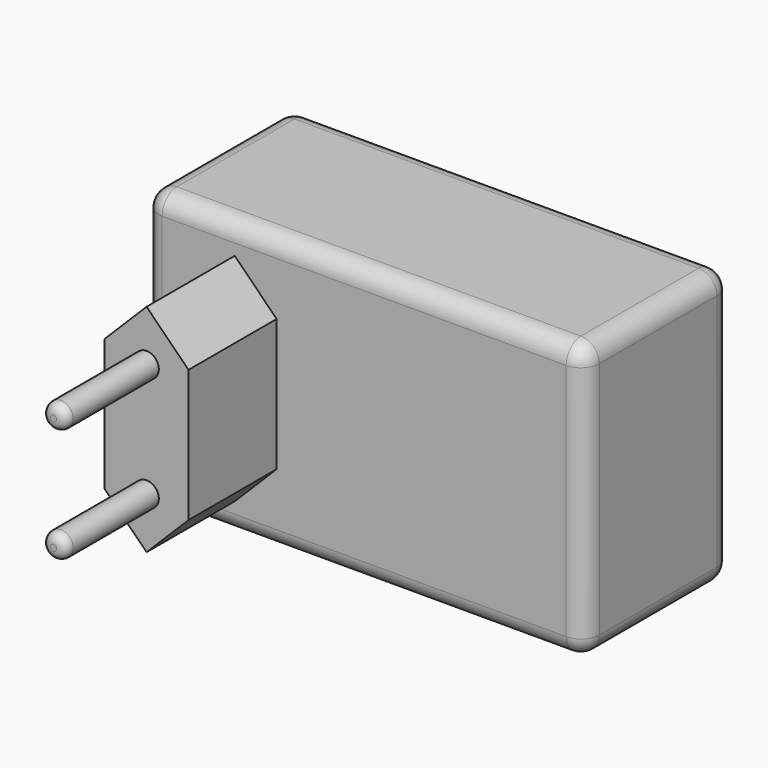
from build123d import *

# Parameters (mm, degrees)
F0_W     = 72
F0_H     = 45
F1_DEPTH = 30
F3_DEPTH = 18
F4_R     = 2
F5_DEPTH = 19
F6_R     = 1.5
F7_R     = 3


with BuildPart() as f1:
    # F0 (on Front) → F1 (new body)
    with BuildSketch(Plane.XZ):
        with Locations((-36, 0)):
            Rectangle(F0_W, F0_H)
    extrude(amount=-F1_DEPTH)

    # F2 (on face) → F3 (join)
    with BuildSketch(Plane.XZ):
        Polygon((-64, 10.8), (-64, -10.8), (-57.15, -17.65), (-50.3, -10.8), (-50.3, 10.8), (-57.15, 17.65), align=None)
    extrude(amount=F3_DEPTH)

    # F4 (on face) → F5 (join)
    with BuildSketch(Plane.XZ.offset(18)):
        with Locations((-57.15, 9.3)):
            Circle(F4_R)
        with Locations((-57.15, -9.3)):
            Circle(F4_R)
    extrude(amount=F5_DEPTH)

    # F6
    f6_edges = [f1.edges().sort_by_distance(p)[0] for p in [
        (-59.15, -37, 9.3),
        (-59.15, -37, -9.3),
    ]]
    fillet(f6_edges, radius=F6_R)

    # F7
    f7_edges = [f1.edges().sort_by_distance(p)[0] for p in [
        (-72, 15, 22.5),
        (-72, 15, -22.5),
        (-72, 0, 0),
        (-72, 30, 0),
        (0, 15, -22.5),
        (0, 15, 22.5),
        (0, 0, 0),
        (0, 30, 0),
        (-36, 0, 22.5),
        (-36, 30, 22.5),
        (-36, 0, -22.5),
        (-36, 30, -22.5),
    ]]
    fillet(f7_edges, radius=F7_R)


solid = f1.part
